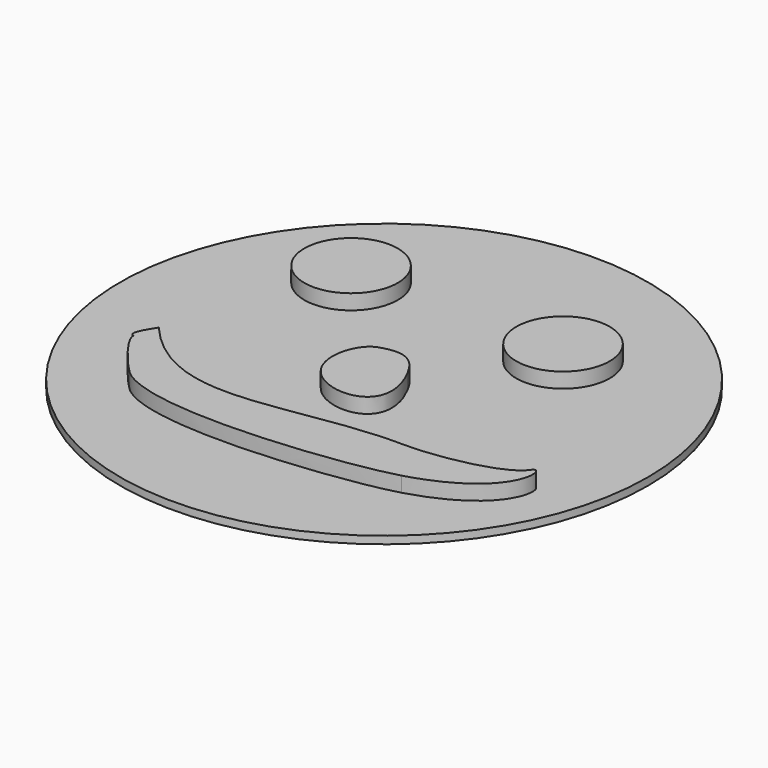
from build123d import *

# Parameters (mm, degrees)
SKETCH_R     = 14
PAD_DEPTH    = 0.4
PAD001_DEPTH = 1.2


with BuildPart() as part:
    # Sketch → Pad (new body)
    with BuildSketch(Plane.XY):
        Circle(SKETCH_R)
    extrude(amount=PAD_DEPTH)

    # Clone2D → Pad001 (join)
    with BuildSketch(Plane(origin=(-15.3624, 20.0267, 0), x_dir=(1, 0, 0), z_dir=(0, 0, 1))):
        with BuildLine():
            add(Edge.make_bspline(
                [(11.343132, -14.095476), (11.343132, -9.803413), (7.626096, -11.949444), (3.90906, -14.095476), (7.626096, -16.241508), (11.343132, -18.387539), (11.343132, -14.095476)],
                knots=[0, 0, 0, 2.094395, 2.094395, 4.18879, 4.18879, 6.283185, 6.283185, 6.283185], degree=2, weights=[1, 0.5, 1, 0.5, 1, 0.5, 1]))
        make_face()
        with BuildLine():
            add(Edge.make_bspline(
                [(14.420088, -19.078956), (13.482828, -19.284696), (12.902184, -21.07692), (13.757148, -22.21992)],
                knots=[0, 0, 0, 0, 1, 1, 1, 1], degree=3))
            add(Edge.make_bspline(
                [(13.757148, -22.21992), (14.92758, -23.801832), (18.512028, -23.61438), (16.692372, -20.125944)],
                knots=[0, 0, 0, 0, 1, 1, 1, 1], degree=3))
            add(Edge.make_bspline(
                [(16.692372, -20.125944), (16.07058, -18.937224), (15.380208, -18.786348), (14.420088, -19.078956)],
                knots=[0, 0, 0, 0, 1, 1, 1, 1], degree=3))
        make_face()
        with BuildLine():
            add(Edge.make_bspline(
                [(22.58568, -14.095476), (22.58568, -9.803413), (18.868644, -11.949444), (15.151608, -14.095476), (18.868644, -16.241508), (22.58568, -18.387539), (22.58568, -14.095476)],
                knots=[0, 0, 0, 2.094395, 2.094395, 4.18879, 4.18879, 6.283185, 6.283185, 6.283185], degree=2, weights=[1, 0.5, 1, 0.5, 1, 0.5, 1]))
        make_face()
        with BuildLine():
            add(Edge.make_bspline(
                [(6.10362, -23.394924), (10.287, -28.305252), (14.726412, -25.159716), (20.702016, -25.269444)],
                knots=[0, 0, 0, 0, 1, 1, 1, 1], degree=3))
            add(Edge.make_bspline(
                [(20.702016, -25.269444), (21.99132, -25.292304), (25.383744, -24.816816), (26.119836, -23.742396)],
                knots=[0, 0, 0, 0, 1, 1, 1, 1], degree=3))
            add(Edge.make_bspline(
                [(26.119836, -23.742396), (26.604468, -23.04288), (27.235404, -26.051256), (22.270212, -27.491436)],
                knots=[0, 0, 0, 0, 1, 1, 1, 1], degree=3))
            add(Edge.make_bspline(
                [(22.270212, -27.491436), (19.536156, -28.286964), (9.985248, -29.42082), (7.671816, -27.285696)],
                knots=[0, 0, 0, 0, 1, 1, 1, 1], degree=3))
            add(Edge.make_bspline(
                [(7.671816, -27.285696), (7.255764, -26.901648), (5.710428, -25.132284), (5.756148, -24.633936)],
                knots=[0, 0, 0, 0, 1, 1, 1, 1], degree=3))
            add(Edge.make_bspline(
                [(5.756148, -24.633936), (5.271516, -24.533352), (6.140196, -23.440644), (6.10362, -23.394924)],
                knots=[0, 0, 0, 0, 1, 1, 1, 1], degree=3))
        make_face()
    extrude(amount=PAD001_DEPTH)


solid = part.part
